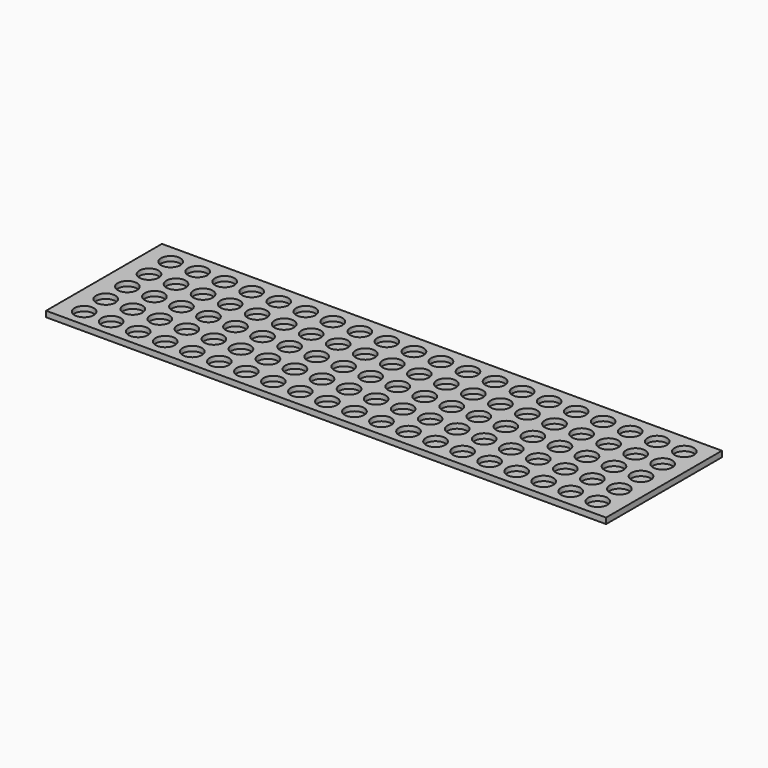
from build123d import *

# Parameters (mm, degrees)
F0_W     = 580
F0_H     = 150
F0_R     = 10
F1_DEPTH = 5
F2_W     = 580
F2_H     = 150
F3_DEPTH = 1


with BuildPart() as f1:
    # F0 (on Top) → F1 (new body)
    with BuildSketch(Plane.XY):
        with Locations((1.197913, -43.259316)):
            Rectangle(F0_W, F0_H)
        with Locations((-263.802087, -100.259316)):
            Circle(F0_R, mode=Mode.SUBTRACT)
        with Locations((-235.802087, -100.259316)):
            Circle(F0_R, mode=Mode.SUBTRACT)
        with Locations((-207.802087, -100.259316)):
            Circle(F0_R, mode=Mode.SUBTRACT)
        with Locations((-179.802087, -100.259316)):
            Circle(F0_R, mode=Mode.SUBTRACT)
        with Locations((-151.802087, -100.259316)):
            Circle(F0_R, mode=Mode.SUBTRACT)
        with Locations((-123.802087, -100.259316)):
            Circle(F0_R, mode=Mode.SUBTRACT)
        with Locations((-95.802087, -100.259316)):
            Circle(F0_R, mode=Mode.SUBTRACT)
        with Locations((-67.802087, -100.259316)):
            Circle(F0_R, mode=Mode.SUBTRACT)
        with Locations((-39.802087, -100.259316)):
            Circle(F0_R, mode=Mode.SUBTRACT)
        with Locations((-11.802087, -100.259316)):
            Circle(F0_R, mode=Mode.SUBTRACT)
        with Locations((-263.802087, -72.259316)):
            Circle(F0_R, mode=Mode.SUBTRACT)
        with Locations((-235.802087, -72.259316)):
            Circle(F0_R, mode=Mode.SUBTRACT)
        with Locations((-207.802087, -72.259316)):
            Circle(F0_R, mode=Mode.SUBTRACT)
        with Locations((-179.802087, -72.259316)):
            Circle(F0_R, mode=Mode.SUBTRACT)
        with Locations((-151.802087, -72.259316)):
            Circle(F0_R, mode=Mode.SUBTRACT)
        with Locations((-263.802087, -44.259316)):
            Circle(F0_R, mode=Mode.SUBTRACT)
        with Locations((-235.802087, -44.259316)):
            Circle(F0_R, mode=Mode.SUBTRACT)
        with Locations((-207.802087, -44.259316)):
            Circle(F0_R, mode=Mode.SUBTRACT)
        with Locations((-179.802087, -44.259316)):
            Circle(F0_R, mode=Mode.SUBTRACT)
        with Locations((-151.802087, -44.259316)):
            Circle(F0_R, mode=Mode.SUBTRACT)
        with Locations((-123.802087, -72.259316)):
            Circle(F0_R, mode=Mode.SUBTRACT)
        with Locations((-95.802087, -72.259316)):
            Circle(F0_R, mode=Mode.SUBTRACT)
        with Locations((-67.802087, -72.259316)):
            Circle(F0_R, mode=Mode.SUBTRACT)
        with Locations((-39.802087, -72.259316)):
            Circle(F0_R, mode=Mode.SUBTRACT)
        with Locations((-11.802087, -72.259316)):
            Circle(F0_R, mode=Mode.SUBTRACT)
        with Locations((-123.802087, -44.259316)):
            Circle(F0_R, mode=Mode.SUBTRACT)
        with Locations((-95.802087, -44.259316)):
            Circle(F0_R, mode=Mode.SUBTRACT)
        with Locations((-67.802087, -44.259316)):
            Circle(F0_R, mode=Mode.SUBTRACT)
        with Locations((-39.802087, -44.259316)):
            Circle(F0_R, mode=Mode.SUBTRACT)
        with Locations((-11.802087, -44.259316)):
            Circle(F0_R, mode=Mode.SUBTRACT)
        with Locations((16.197913, -100.259316)):
            Circle(F0_R, mode=Mode.SUBTRACT)
        with Locations((44.197913, -100.259316)):
            Circle(F0_R, mode=Mode.SUBTRACT)
        with Locations((72.197913, -100.259316)):
            Circle(F0_R, mode=Mode.SUBTRACT)
        with Locations((100.197913, -100.259316)):
            Circle(F0_R, mode=Mode.SUBTRACT)
        with Locations((128.197913, -100.259316)):
            Circle(F0_R, mode=Mode.SUBTRACT)
        with Locations((156.197913, -100.259316)):
            Circle(F0_R, mode=Mode.SUBTRACT)
        with Locations((184.197913, -100.259316)):
            Circle(F0_R, mode=Mode.SUBTRACT)
        with Locations((212.197913, -100.259316)):
            Circle(F0_R, mode=Mode.SUBTRACT)
        with Locations((240.197913, -100.259316)):
            Circle(F0_R, mode=Mode.SUBTRACT)
        with Locations((268.197913, -100.259316)):
            Circle(F0_R, mode=Mode.SUBTRACT)
        with Locations((16.197913, -72.259316)):
            Circle(F0_R, mode=Mode.SUBTRACT)
        with Locations((44.197913, -72.259316)):
            Circle(F0_R, mode=Mode.SUBTRACT)
        with Locations((72.197913, -72.259316)):
            Circle(F0_R, mode=Mode.SUBTRACT)
        with Locations((100.197913, -72.259316)):
            Circle(F0_R, mode=Mode.SUBTRACT)
        with Locations((128.197913, -72.259316)):
            Circle(F0_R, mode=Mode.SUBTRACT)
        with Locations((16.197913, -44.259316)):
            Circle(F0_R, mode=Mode.SUBTRACT)
        with Locations((44.197913, -44.259316)):
            Circle(F0_R, mode=Mode.SUBTRACT)
        with Locations((72.197913, -44.259316)):
            Circle(F0_R, mode=Mode.SUBTRACT)
        with Locations((100.197913, -44.259316)):
            Circle(F0_R, mode=Mode.SUBTRACT)
        with Locations((128.197913, -44.259316)):
            Circle(F0_R, mode=Mode.SUBTRACT)
        with Locations((156.197913, -72.259316)):
            Circle(F0_R, mode=Mode.SUBTRACT)
        with Locations((184.197913, -72.259316)):
            Circle(F0_R, mode=Mode.SUBTRACT)
        with Locations((212.197913, -72.259316)):
            Circle(F0_R, mode=Mode.SUBTRACT)
        with Locations((240.197913, -72.259316)):
            Circle(F0_R, mode=Mode.SUBTRACT)
        with Locations((268.197913, -72.259316)):
            Circle(F0_R, mode=Mode.SUBTRACT)
        with Locations((156.197913, -44.259316)):
            Circle(F0_R, mode=Mode.SUBTRACT)
        with Locations((184.197913, -44.259316)):
            Circle(F0_R, mode=Mode.SUBTRACT)
        with Locations((212.197913, -44.259316)):
            Circle(F0_R, mode=Mode.SUBTRACT)
        with Locations((240.197913, -44.259316)):
            Circle(F0_R, mode=Mode.SUBTRACT)
        with Locations((268.197913, -44.259316)):
            Circle(F0_R, mode=Mode.SUBTRACT)
        with Locations((-263.802087, -16.259316)):
            Circle(F0_R, mode=Mode.SUBTRACT)
        with Locations((-235.802087, -16.259316)):
            Circle(F0_R, mode=Mode.SUBTRACT)
        with Locations((-207.802087, -16.259316)):
            Circle(F0_R, mode=Mode.SUBTRACT)
        with Locations((-179.802087, -16.259316)):
            Circle(F0_R, mode=Mode.SUBTRACT)
        with Locations((-151.802087, -16.259316)):
            Circle(F0_R, mode=Mode.SUBTRACT)
        with Locations((-123.802087, -16.259316)):
            Circle(F0_R, mode=Mode.SUBTRACT)
        with Locations((-95.802087, -16.259316)):
            Circle(F0_R, mode=Mode.SUBTRACT)
        with Locations((-67.802087, -16.259316)):
            Circle(F0_R, mode=Mode.SUBTRACT)
        with Locations((-39.802087, -16.259316)):
            Circle(F0_R, mode=Mode.SUBTRACT)
        with Locations((-11.802087, -16.259316)):
            Circle(F0_R, mode=Mode.SUBTRACT)
        with Locations((-263.802087, 11.740684)):
            Circle(F0_R, mode=Mode.SUBTRACT)
        with Locations((-235.802087, 11.740684)):
            Circle(F0_R, mode=Mode.SUBTRACT)
        with Locations((-207.802087, 11.740684)):
            Circle(F0_R, mode=Mode.SUBTRACT)
        with Locations((-179.802087, 11.740684)):
            Circle(F0_R, mode=Mode.SUBTRACT)
        with Locations((-151.802087, 11.740684)):
            Circle(F0_R, mode=Mode.SUBTRACT)
        with Locations((-123.802087, 11.740684)):
            Circle(F0_R, mode=Mode.SUBTRACT)
        with Locations((-95.802087, 11.740684)):
            Circle(F0_R, mode=Mode.SUBTRACT)
        with Locations((-67.802087, 11.740684)):
            Circle(F0_R, mode=Mode.SUBTRACT)
        with Locations((-39.802087, 11.740684)):
            Circle(F0_R, mode=Mode.SUBTRACT)
        with Locations((-11.802087, 11.740684)):
            Circle(F0_R, mode=Mode.SUBTRACT)
        with Locations((16.197913, -16.259316)):
            Circle(F0_R, mode=Mode.SUBTRACT)
        with Locations((44.197913, -16.259316)):
            Circle(F0_R, mode=Mode.SUBTRACT)
        with Locations((72.197913, -16.259316)):
            Circle(F0_R, mode=Mode.SUBTRACT)
        with Locations((100.197913, -16.259316)):
            Circle(F0_R, mode=Mode.SUBTRACT)
        with Locations((128.197913, -16.259316)):
            Circle(F0_R, mode=Mode.SUBTRACT)
        with Locations((156.197913, -16.259316)):
            Circle(F0_R, mode=Mode.SUBTRACT)
        with Locations((184.197913, -16.259316)):
            Circle(F0_R, mode=Mode.SUBTRACT)
        with Locations((212.197913, -16.259316)):
            Circle(F0_R, mode=Mode.SUBTRACT)
        with Locations((240.197913, -16.259316)):
            Circle(F0_R, mode=Mode.SUBTRACT)
        with Locations((268.197913, -16.259316)):
            Circle(F0_R, mode=Mode.SUBTRACT)
        with Locations((16.197913, 11.740684)):
            Circle(F0_R, mode=Mode.SUBTRACT)
        with Locations((44.197913, 11.740684)):
            Circle(F0_R, mode=Mode.SUBTRACT)
        with Locations((72.197913, 11.740684)):
            Circle(F0_R, mode=Mode.SUBTRACT)
        with Locations((100.197913, 11.740684)):
            Circle(F0_R, mode=Mode.SUBTRACT)
        with Locations((128.197913, 11.740684)):
            Circle(F0_R, mode=Mode.SUBTRACT)
        with Locations((156.197913, 11.740684)):
            Circle(F0_R, mode=Mode.SUBTRACT)
        with Locations((184.197913, 11.740684)):
            Circle(F0_R, mode=Mode.SUBTRACT)
        with Locations((212.197913, 11.740684)):
            Circle(F0_R, mode=Mode.SUBTRACT)
        with Locations((240.197913, 11.740684)):
            Circle(F0_R, mode=Mode.SUBTRACT)
        with Locations((268.197913, 11.740684)):
            Circle(F0_R, mode=Mode.SUBTRACT)
    extrude(amount=F1_DEPTH)

    # F2 (on face) → F3 (join)
    with BuildSketch(Plane(origin=(0, 0, 0), x_dir=(1, 0, 0), z_dir=(0, 0, -1))):
        with Locations((1.197913, 43.259316)):
            Rectangle(F2_W, F2_H)
    extrude(amount=F3_DEPTH)


solid = f1.part
